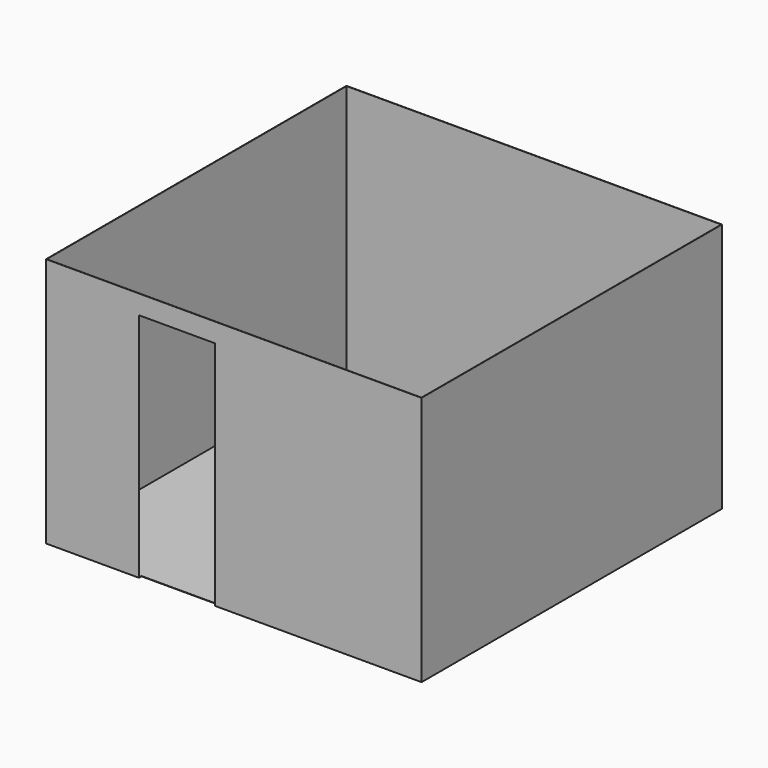
from build123d import *

# Parameters (mm, degrees)
F0_W     = 3000
F0_H     = 3000
F1_DEPTH = 2000
F2_T     = -2.5
F3_W     = 607.406541
F3_H     = 1847.015142
F4_DEPTH = 25


with BuildPart() as f1:
    # F0 (on Top) → F1 (new body)
    with BuildSketch(Plane.XY):
        Rectangle(F0_W, F0_H)
    extrude(amount=F1_DEPTH)

    # F2
    f2_openings = [f1.faces().sort_by_distance(p)[0] for p in [
        (0, 0, 2000),
    ]]
    offset(amount=F2_T, openings=f2_openings)

    # F3 (on face) → F4 (cut)
    with BuildSketch(Plane.XZ.offset(1500)):
        with Locations((-454.043903, 923.507571)):
            Rectangle(F3_W, F3_H)
    extrude(amount=-F4_DEPTH, mode=Mode.SUBTRACT)


solid = f1.part
